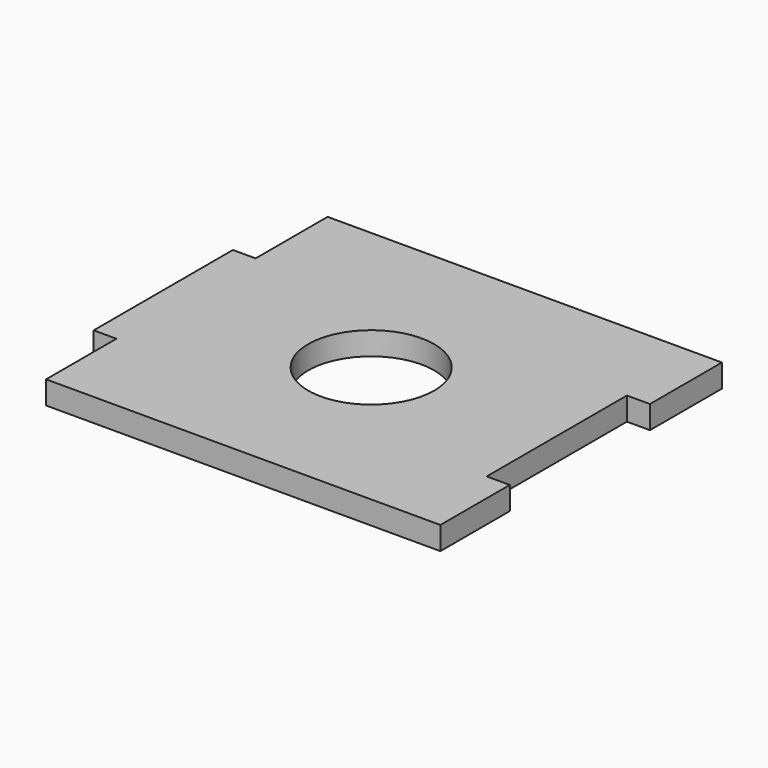
from build123d import *

# Parameters (mm, degrees)
F0_R     = 12.15
F1_DEPTH = 4.45


with BuildPart() as f1:
    # F0 (on Top) → F1 (new body)
    with BuildSketch(Plane.XY):
        Polygon((-46.197247, 20.387878), (-50.585262, 20.387878), (-50.585262, -13.197176), (-46.197247, -13.197176), (-46.197247, -30.152489), (25.432527, -30.152489), (29.882527, -30.152489), (29.882527, -13.418792), (25.432527, -13.418792), (25.432527, 20.387878), (29.882527, 20.387878), (29.882527, 37.746087), (25.432527, 37.746087), (-46.197247, 37.746087), align=None)
        with Locations((-10.38236, 3.484543)):
            Circle(F0_R, mode=Mode.SUBTRACT)
    extrude(amount=F1_DEPTH)


solid = f1.part
